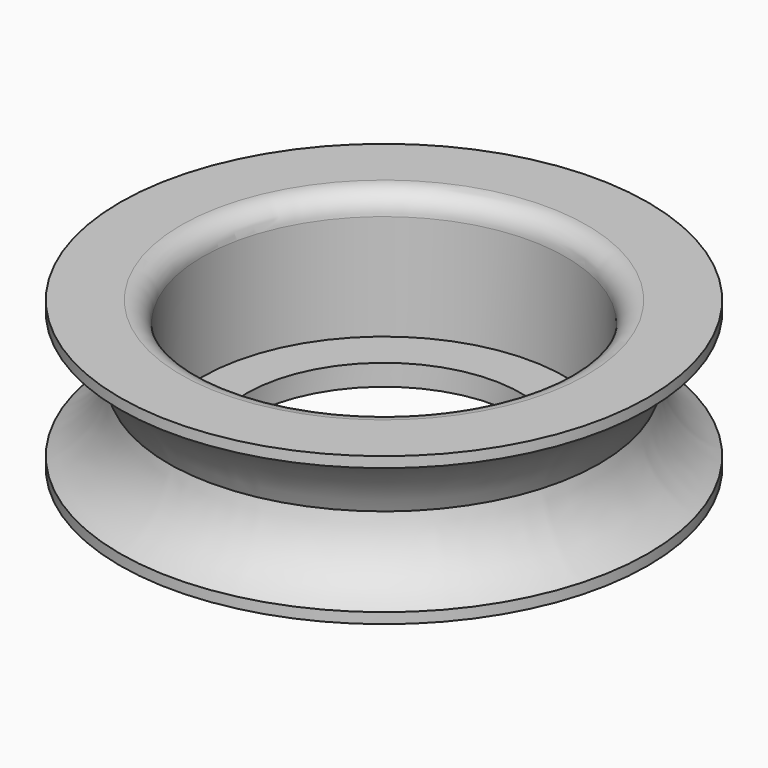
from build123d import *

# Parameters (mm, degrees)
F2_R = 1


with BuildPart() as f1:
    # F0 (on Front) → F1 (revolve)
    with BuildSketch(Plane.XZ):
        with BuildLine():
            Line((-6.5, 0), (-6.5, 1))
            Line((-6.5, 1), (-8.6, 1))
            Line((-8.6, 1), (-8.6, 7))
            Line((-8.6, 7), (-12.5, 7))
            Line((-12.5, 7), (-12.5, 6.5))
            ThreePointArc((-12.5, 6.5), (-11.113348, 5.181433), (-10.2, 3.5))
            ThreePointArc((-10.2, 3.5), (-10.978058, 1.714844), (-12.5, 0.5))
            Line((-12.5, 0.5), (-12.5, 0))
            Line((-12.5, 0), (-6.5, 0))
        make_face()
    revolve(axis=Axis((0, 0, 10.677967), (0, 0, -1)))

    # F2
    f2_edges = [f1.edges().sort_by_distance(p)[0] for p in [
        (8.6, 0, 7),
    ]]
    fillet(f2_edges, radius=F2_R)


solid = f1.part
